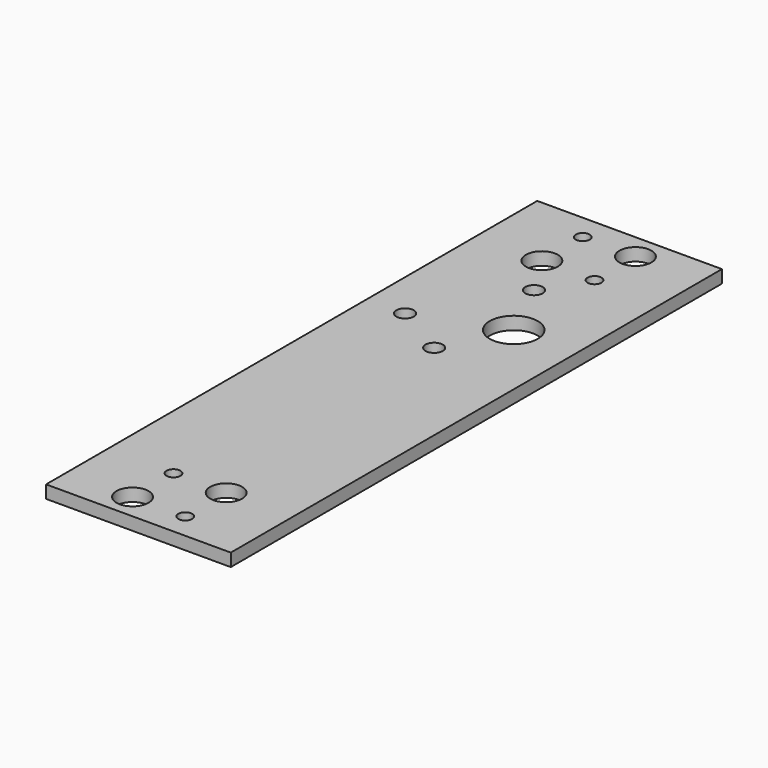
from build123d import *

# Parameters (mm, degrees)
F0_W     = 45.847
F0_H     = 152.4
F0_R     = 3.96875
F0_R_2   = 1.7272
F0_R_3   = 2.15265
F0_R_4   = 5.969
F1_DEPTH = 3.175


with BuildPart() as f1:
    # F0 (on Top) → F1 (new body)
    with BuildSketch(Plane.XY):
        with Locations((22.9235, -76.2)):
            Rectangle(F0_W, F0_H)
        with Locations((16.383, -146.05)):
            Circle(F0_R, mode=Mode.SUBTRACT)
        with Locations((16.383, -133.35)):
            Circle(F0_R_2, mode=Mode.SUBTRACT)
        with Locations((29.464, -146.05)):
            Circle(F0_R_2, mode=Mode.SUBTRACT)
        with Locations((29.464, -133.35)):
            Circle(F0_R, mode=Mode.SUBTRACT)
        with Locations((9.505302, -52.894501)):
            Circle(F0_R_3, mode=Mode.SUBTRACT)
        with Locations((16.383, -19.05)):
            Circle(F0_R, mode=Mode.SUBTRACT)
        with Locations((16.383, -6.35)):
            Circle(F0_R_2, mode=Mode.SUBTRACT)
        with Locations((22.9235, -60.641501)):
            Circle(F0_R_3, mode=Mode.SUBTRACT)
        with Locations((30.2895, -45.147501)):
            Circle(F0_R_4, mode=Mode.SUBTRACT)
        with Locations((22.9235, -29.653501)):
            Circle(F0_R_3, mode=Mode.SUBTRACT)
        with Locations((29.464, -19.05)):
            Circle(F0_R_2, mode=Mode.SUBTRACT)
        with Locations((29.464, -6.35)):
            Circle(F0_R, mode=Mode.SUBTRACT)
    extrude(amount=F1_DEPTH)


solid = f1.part
